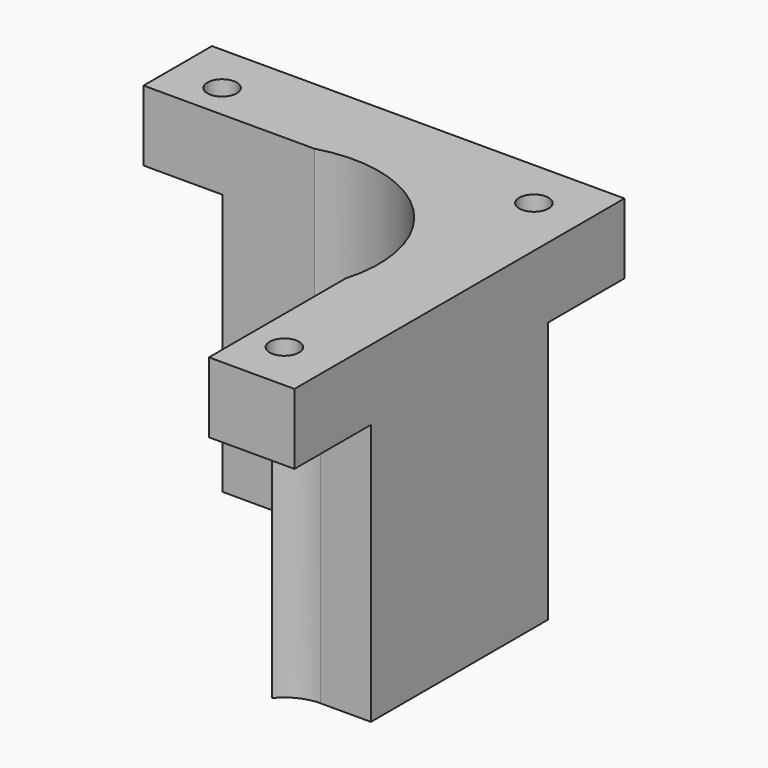
from build123d import *

# Parameters (mm, degrees)
PAD002_DEPTH          = 40
SKETCH003_W           = 41
SKETCH003_H           = 41
SKETCH003_R           = 12.5
PAD001_DEPTH          = 33
SKETCH004_R           = 1.46
POCKET001_DEPTH       = 7
POCKET002_DEPTH       = 159.43263
POLARPATTERN_COUNT    = 4
SKETCH006_R           = 1.75
POCKET003_DEPTH       = 15
POLARPATTERN001_COUNT = 4


with BuildPart() as obj1:
    # Sketch007 → Pad002 (new body)
    with BuildSketch(Plane.XY):
        Polygon((-25, 12), (-25, -25), (12, -25), (12, 0), (0, 0), (0, 12), align=None)
    extrude(amount=PAD002_DEPTH)


with BuildPart() as cut:
    # Sketch003 → Pad001 (new body)
    with BuildSketch(Plane.XY):
        Rectangle(SKETCH003_W, SKETCH003_H)
        Circle(SKETCH003_R, mode=Mode.SUBTRACT)
    extrude(amount=PAD001_DEPTH)

    # Sketch004 → Pocket001 (cut)
    with BuildSketch(Plane.XY.offset(33)):
        with Locations((-15.5, 15.5)):
            Circle(SKETCH004_R)
        with Locations((15.5, 15.5)):
            Circle(SKETCH004_R)
        with Locations((15.5, -15.5)):
            Circle(SKETCH004_R)
        with Locations((-15.5, -15.5)):
            Circle(SKETCH004_R)
    extrude(amount=-POCKET001_DEPTH, mode=Mode.SUBTRACT)

    # Sketch005 → Pocket002 (cut, through all)
    with BuildSketch(Plane.XY.offset(26)):
        with BuildLine():
            ThreePointArc((-11, -15.5), (-12.318019, -12.318019), (-15.5, -11))
            Line((-15.5, -11), (-21.5, -11))
            Line((-21.5, -11), (-21.5, -21.5))
            Line((-21.5, -21.5), (-11, -21.5))
            Line((-11, -15.5), (-11, -21.5))
        make_face()
    pocket002 = extrude(amount=-POCKET002_DEPTH, mode=Mode.SUBTRACT)

    # PolarPattern: Pocket002 ×4 about axis
    polarpattern_axis = Axis((0, 0, 26), (0, 0, 1))
    for i in range(1, POLARPATTERN_COUNT):
        add(pocket002.rotate(polarpattern_axis, i * 360 / POLARPATTERN_COUNT), mode=Mode.SUBTRACT)

    # Sketch006 → Pocket003 (cut)
    with BuildSketch(Plane(origin=(0, 0, 0), x_dir=(1, 0, 0), z_dir=(0, 0, -1))):
        with Locations((-17, 0)):
            Circle(SKETCH006_R)
    pocket003 = extrude(amount=-POCKET003_DEPTH, mode=Mode.SUBTRACT)

    # PolarPattern001: Pocket003 ×4 about axis
    polarpattern001_axis = Axis((0, 0, 0), (0, 0, -1))
    for i in range(1, POLARPATTERN001_COUNT):
        add(pocket003.rotate(polarpattern001_axis, i * 360 / POLARPATTERN001_COUNT), mode=Mode.SUBTRACT)

    # Cut: cut obj1
    add(obj1.part, mode=Mode.SUBTRACT)


solid = cut.part
